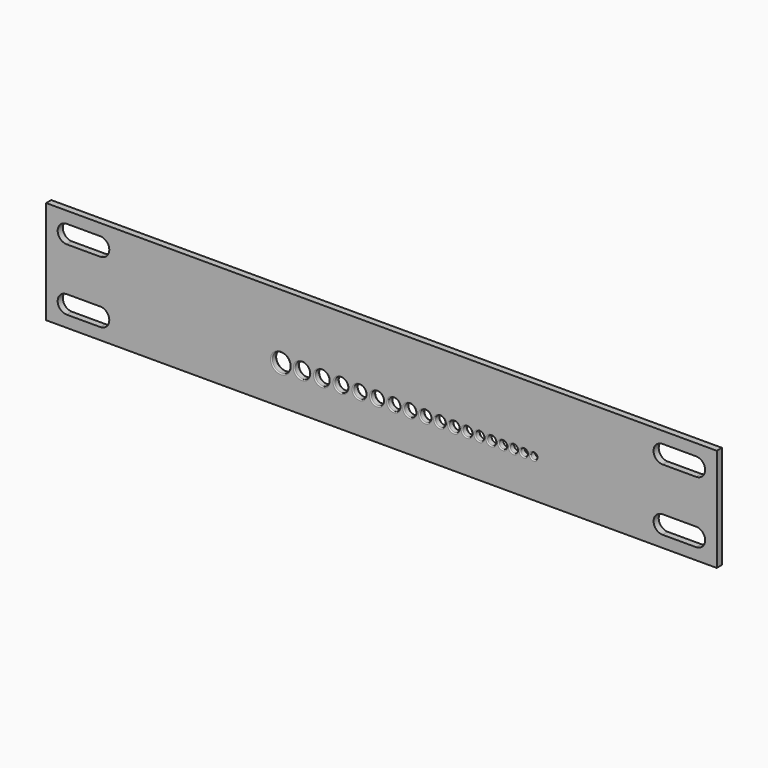
from build123d import *

# Parameters (mm, degrees)
F1_DEPTH = 3.175
F2_R     = 0.508


with BuildPart() as f1:
    # F0 (on Front) → F1 (new body)
    with BuildSketch(Plane.XZ):
        with BuildLine():
            Line((165.1, -6.35), (165.1, 25.4))
            Line((165.1, 25.4), (-165.1, 25.4))
            Line((-165.1, 25.4), (-165.1, -6.35))
            Line((-165.1, -6.35), (-54.09438, -6.35))
            ThreePointArc((-54.09438, -6.35), (-49.53, -1.78562), (-44.96562, -6.35))
            Line((-44.96562, -6.35), (-42.88663, -6.35))
            ThreePointArc((-42.88663, -6.35), (-39.116, -2.57937), (-35.34537, -6.35))
            Line((-35.34537, -6.35), (-32.90951, -6.35))
            ThreePointArc((-32.90951, -6.35), (-29.337, -2.77749), (-25.76449, -6.35))
            Line((-25.76449, -6.35), (-23.31212, -6.35))
            ThreePointArc((-23.31212, -6.35), (-19.939, -2.97688), (-16.56588, -6.35))
            Line((-16.56588, -6.35), (-13.97, -6.35))
            ThreePointArc((-13.97, -6.35), (-10.795, -3.175), (-7.62, -6.35))
            Line((-7.62, -6.35), (-5.334, -6.35))
            ThreePointArc((-5.334, -6.35), (-2.159, -3.175), (1.016, -6.35))
            Line((1.016, -6.35), (3.11912, -6.35))
            ThreePointArc((3.11912, -6.35), (6.096, -3.37312), (9.07288, -6.35))
            Line((9.07288, -6.35), (10.99312, -6.35))
            ThreePointArc((10.99312, -6.35), (13.97, -3.37312), (16.94688, -6.35))
            Line((16.94688, -6.35), (18.81124, -6.35))
            ThreePointArc((18.81124, -6.35), (21.59, -3.57124), (24.36876, -6.35))
            Line((24.36876, -6.35), (26.24963, -6.35))
            ThreePointArc((26.24963, -6.35), (28.829, -3.77063), (31.40837, -6.35))
            Line((31.40837, -6.35), (33.10763, -6.35))
            ThreePointArc((33.10763, -6.35), (35.687, -3.77063), (38.26637, -6.35))
            Line((38.26637, -6.35), (39.78275, -6.35))
            ThreePointArc((39.78275, -6.35), (42.164, -3.96875), (44.54525, -6.35))
            Line((44.54525, -6.35), (46.07687, -6.35))
            ThreePointArc((46.07687, -6.35), (48.26, -4.16687), (50.44313, -6.35))
            Line((50.44313, -6.35), (51.91887, -6.35))
            ThreePointArc((51.91887, -6.35), (54.102, -4.16687), (56.28513, -6.35))
            Line((56.28513, -6.35), (57.70499, -6.35))
            ThreePointArc((57.70499, -6.35), (59.69, -4.36499), (61.67501, -6.35))
            Line((61.67501, -6.35), (63.03899, -6.35))
            ThreePointArc((63.03899, -6.35), (65.024, -4.36499), (67.00901, -6.35))
            Line((67.00901, -6.35), (68.31838, -6.35))
            ThreePointArc((68.31838, -6.35), (70.104, -4.56438), (71.88962, -6.35))
            Line((71.88962, -6.35), (73.3425, -6.35))
            ThreePointArc((73.3425, -6.35), (74.93, -4.7625), (76.5175, -6.35))
            Line((76.5175, -6.35), (165.1, -6.35))
        make_face()
        with BuildLine():
            Line((-154.94, 19.685), (-138.43, 19.685))
            ThreePointArc((-138.43, 19.685), (-133.985, 15.24), (-138.43, 10.795))
            Line((-138.43, 10.795), (-154.94, 10.795))
            ThreePointArc((-154.94, 10.795), (-159.385, 15.24), (-154.94, 19.685))
        make_face(mode=Mode.SUBTRACT)
        with BuildLine():
            Line((138.43, 19.685), (154.94, 19.685))
            ThreePointArc((154.94, 19.685), (159.385, 15.24), (154.94, 10.795))
            Line((154.94, 10.795), (138.43, 10.795))
            ThreePointArc((138.43, 10.795), (133.985, 15.24), (138.43, 19.685))
        make_face(mode=Mode.SUBTRACT)
        with BuildLine():
            Line((165.1, -25.4), (165.1, -6.35))
            Line((165.1, -6.35), (76.5175, -6.35))
            ThreePointArc((76.5175, -6.35), (74.93, -7.9375), (73.3425, -6.35))
            Line((73.3425, -6.35), (71.88962, -6.35))
            ThreePointArc((71.88962, -6.35), (70.104, -8.13562), (68.31838, -6.35))
            Line((68.31838, -6.35), (67.00901, -6.35))
            ThreePointArc((67.00901, -6.35), (65.024, -8.33501), (63.03899, -6.35))
            Line((63.03899, -6.35), (61.67501, -6.35))
            ThreePointArc((61.67501, -6.35), (59.69, -8.33501), (57.70499, -6.35))
            Line((57.70499, -6.35), (56.28513, -6.35))
            ThreePointArc((56.28513, -6.35), (54.102, -8.53313), (51.91887, -6.35))
            Line((51.91887, -6.35), (50.44313, -6.35))
            ThreePointArc((50.44313, -6.35), (48.26, -8.53313), (46.07687, -6.35))
            Line((46.07687, -6.35), (44.54525, -6.35))
            ThreePointArc((44.54525, -6.35), (42.164, -8.73125), (39.78275, -6.35))
            Line((39.78275, -6.35), (38.26637, -6.35))
            ThreePointArc((38.26637, -6.35), (35.687, -8.92937), (33.10763, -6.35))
            Line((33.10763, -6.35), (31.40837, -6.35))
            ThreePointArc((31.40837, -6.35), (28.829, -8.92937), (26.24963, -6.35))
            Line((26.24963, -6.35), (24.36876, -6.35))
            ThreePointArc((24.36876, -6.35), (21.59, -9.12876), (18.81124, -6.35))
            Line((18.81124, -6.35), (16.94688, -6.35))
            ThreePointArc((16.94688, -6.35), (13.97, -9.32688), (10.99312, -6.35))
            Line((10.99312, -6.35), (9.07288, -6.35))
            ThreePointArc((9.07288, -6.35), (6.096, -9.32688), (3.11912, -6.35))
            Line((3.11912, -6.35), (1.016, -6.35))
            ThreePointArc((1.016, -6.35), (-2.159, -9.525), (-5.334, -6.35))
            Line((-5.334, -6.35), (-7.62, -6.35))
            ThreePointArc((-7.62, -6.35), (-10.795, -9.525), (-13.97, -6.35))
            Line((-13.97, -6.35), (-16.56588, -6.35))
            ThreePointArc((-16.56588, -6.35), (-19.939, -9.72312), (-23.31212, -6.35))
            Line((-23.31212, -6.35), (-25.76449, -6.35))
            ThreePointArc((-25.76449, -6.35), (-29.337, -9.92251), (-32.90951, -6.35))
            Line((-32.90951, -6.35), (-35.34537, -6.35))
            ThreePointArc((-35.34537, -6.35), (-39.116, -10.12063), (-42.88663, -6.35))
            Line((-42.88663, -6.35), (-44.96562, -6.35))
            ThreePointArc((-44.96562, -6.35), (-49.53, -10.91438), (-54.09438, -6.35))
            Line((-54.09438, -6.35), (-165.1, -6.35))
            Line((-165.1, -6.35), (-165.1, -25.4))
            Line((-165.1, -25.4), (165.1, -25.4))
        make_face()
        with BuildLine():
            Line((-154.94, -10.795), (-138.43, -10.795))
            ThreePointArc((-138.43, -10.795), (-133.985, -15.24), (-138.43, -19.685))
            Line((-138.43, -19.685), (-154.94, -19.685))
            ThreePointArc((-154.94, -19.685), (-159.385, -15.24), (-154.94, -10.795))
        make_face(mode=Mode.SUBTRACT)
        with BuildLine():
            Line((138.43, -10.795), (154.94, -10.795))
            ThreePointArc((154.94, -10.795), (159.385, -15.24), (154.94, -19.685))
            Line((154.94, -19.685), (138.43, -19.685))
            ThreePointArc((138.43, -19.685), (133.985, -15.24), (138.43, -10.795))
        make_face(mode=Mode.SUBTRACT)
    extrude(amount=F1_DEPTH)

    # F2
    f2_edges = [f1.edges().sort_by_distance(p)[0] for p in [
        (-54.09438, -3.175, -6.35),
        (-42.88663, -3.175, -6.35),
        (-32.90951, -3.175, -6.35),
        (-23.31212, -3.175, -6.35),
        (-13.97, -3.175, -6.35),
        (-5.334, -3.175, -6.35),
        (3.11912, -3.175, -6.35),
        (10.99312, -3.175, -6.35),
        (18.81124, -3.175, -6.35),
        (26.24963, -3.175, -6.35),
        (33.10763, -3.175, -6.35),
        (39.78275, -3.175, -6.35),
        (46.07687, -3.175, -6.35),
        (51.91887, -3.175, -6.35),
        (57.70499, -3.175, -6.35),
        (63.03899, -3.175, -6.35),
        (68.31838, -3.175, -6.35),
        (73.3425, -3.175, -6.35),
        (-54.09438, 0, -6.35),
        (-42.88663, 0, -6.35),
        (-32.90951, 0, -6.35),
        (-23.31212, 0, -6.35),
        (-13.97, 0, -6.35),
        (-5.334, 0, -6.35),
        (3.11912, 0, -6.35),
        (10.99312, 0, -6.35),
        (18.81124, 0, -6.35),
        (26.24963, 0, -6.35),
        (33.10763, 0, -6.35),
        (39.78275, 0, -6.35),
        (46.07687, 0, -6.35),
        (51.91887, 0, -6.35),
        (57.70499, 0, -6.35),
        (63.03899, 0, -6.35),
        (68.31838, 0, -6.35),
        (73.3425, 0, -6.35),
    ]]
    fillet(f2_edges, radius=F2_R)


solid = f1.part
